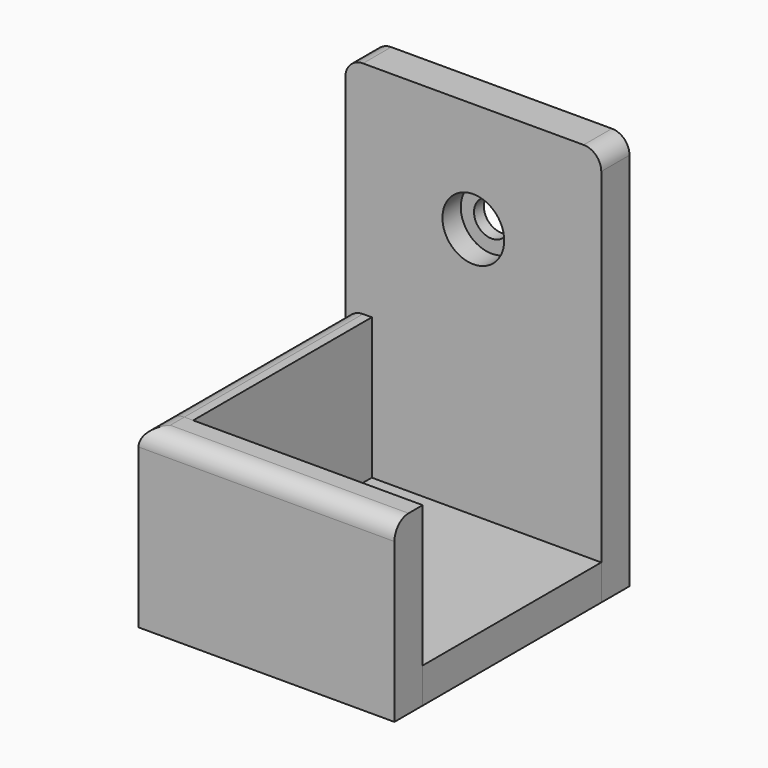
from build123d import *

# Parameters (mm, degrees)
F0_W      = 29
F0_H      = 33.3
F1_DEPTH  = 4
F2_W      = 29
F2_H      = 4
F3_DEPTH  = 45
F4_W      = 29
F4_H      = 4
F5_DEPTH  = 20
F6_R      = 2
F7_DEPTH  = 6
F8_R      = 3.5
F9_DEPTH  = 2.6
F10_R     = 2
F11_W     = 3
F11_H     = 25.3
F12_DEPTH = 16
F13_R     = 2
F13_2_R   = 2


with BuildPart() as f1:
    # F0 (on Top) → F1 (new body)
    with BuildSketch(Plane.XY):
        Rectangle(F0_W, F0_H)
    extrude(amount=F1_DEPTH)


with BuildPart() as f3:
    # F2 (on face) → F3 (new body)
    with BuildSketch(Plane.XY):
        with Locations((0, 14.65)):
            Rectangle(F2_W, F2_H)
    extrude(amount=F3_DEPTH)

    # F6 (on face) → F7 (cut)
    with BuildSketch(Plane.XZ.offset(-12.65)):
        with Locations((0, 32.526892)):
            Circle(F6_R)
    extrude(amount=-F7_DEPTH, mode=Mode.SUBTRACT)

    # F8 (on face) → F9 (cut)
    with BuildSketch(Plane.XZ.offset(-12.65)):
        with Locations((0, 32.526892)):
            Circle(F8_R)
    extrude(amount=-F9_DEPTH, mode=Mode.SUBTRACT)

    # F10
    f10_edges = [f3.edges().sort_by_distance(p)[0] for p in [
        (-14.5, 14.65, 45),
        (14.5, 14.65, 45),
    ]]
    fillet(f10_edges, radius=F10_R)


with BuildPart() as f5:
    # F4 (on face) → F5 (new body)
    with BuildSketch(Plane.XY):
        with Locations((0, -14.65)):
            Rectangle(F4_W, F4_H)
    extrude(amount=F5_DEPTH)

    # F13
    f13_edges = [f5.edges().sort_by_distance(p)[0] for p in [
        (0, -16.65, 20),
        (-14.5, -14.65, 20),
    ]]
    fillet(f13_edges, radius=F13_R)


with BuildPart() as f12:
    # F11 (on face) → F12 (new body)
    with BuildSketch(Plane.XY.offset(4)):
        with Locations((-13, 0)):
            Rectangle(F11_W, F11_H)
    extrude(amount=F12_DEPTH)

    # F13#2
    f13_2_edges = [f12.edges().sort_by_distance(p)[0] for p in [
        (-14.5, 0, 20),
    ]]
    fillet(f13_2_edges, radius=F13_2_R)


solid = Compound([f1.part, f3.part, f5.part, f12.part])
